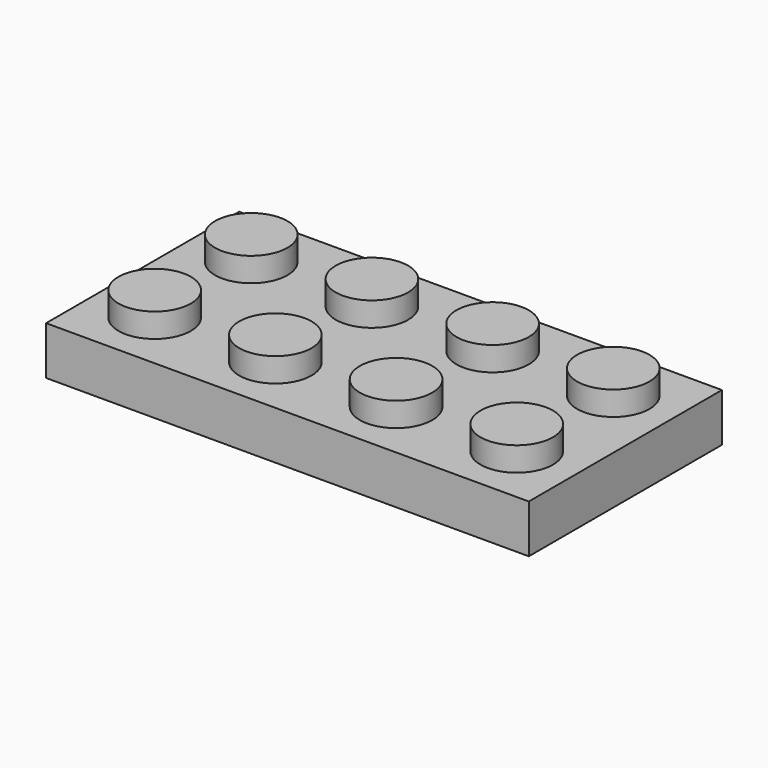
from build123d import *

# Parameters (mm, degrees)
F0_W     = 31.75
F0_H     = 15.875
F0_R     = 2.38125
F1_DEPTH = 3.175
F2_DEPTH = 4.7625
F3_T     = -1.5875
F4_R     = 3.175
F4_R_2   = 2.38125
F5_DEPTH = 1.5875


with BuildPart() as f1:
    # F0 (on Top) → F1 (new body)
    with BuildSketch(Plane.XY):
        Rectangle(F0_W, F0_H)
        with Locations((-11.90625, -3.96875)):
            Circle(F0_R, mode=Mode.SUBTRACT)
        with Locations((-3.96875, -3.96875)):
            Circle(F0_R, mode=Mode.SUBTRACT)
        with Locations((3.96875, -3.96875)):
            Circle(F0_R, mode=Mode.SUBTRACT)
        with Locations((11.90625, -3.96875)):
            Circle(F0_R, mode=Mode.SUBTRACT)
        with Locations((-11.90625, 3.96875)):
            Circle(F0_R, mode=Mode.SUBTRACT)
        with Locations((-3.96875, 3.96875)):
            Circle(F0_R, mode=Mode.SUBTRACT)
        with Locations((3.96875, 3.96875)):
            Circle(F0_R, mode=Mode.SUBTRACT)
        with Locations((11.90625, 3.96875)):
            Circle(F0_R, mode=Mode.SUBTRACT)
    extrude(amount=F1_DEPTH)

    # F0 (on Top) → F2 (join)
    with BuildSketch(Plane.XY):
        with Locations((-11.90625, 3.96875)):
            Circle(F0_R)
        with Locations((-3.96875, 3.96875)):
            Circle(F0_R)
        with Locations((-3.96875, -3.96875)):
            Circle(F0_R)
        with Locations((-11.90625, -3.96875)):
            Circle(F0_R)
        with Locations((3.96875, 3.96875)):
            Circle(F0_R)
        with Locations((11.90625, 3.96875)):
            Circle(F0_R)
        with Locations((11.90625, -3.96875)):
            Circle(F0_R)
        with Locations((3.96875, -3.96875)):
            Circle(F0_R)
    extrude(amount=F2_DEPTH)

    # F3
    f3_openings = [f1.faces().sort_by_distance(p)[0] for p in [
        (0, 0, 0),
    ]]
    offset(amount=F3_T, openings=f3_openings, kind=Kind.INTERSECTION)

    # F4 (on face) → F5 (join)
    with BuildSketch(Plane(origin=(0, 0, 1.5875), x_dir=(1, 0, 0), z_dir=(0, 0, -1))):
        Circle(F4_R)
        Circle(F4_R_2, mode=Mode.SUBTRACT)
    extrude(amount=F5_DEPTH)


solid = f1.part
